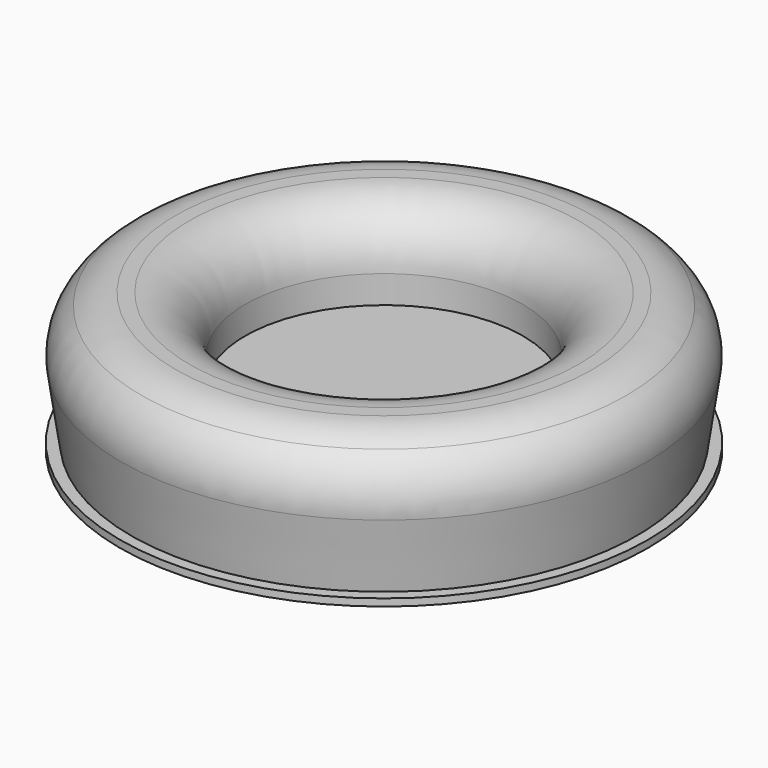
from build123d import *

# Parameters (mm, degrees)
F0_R     = 47.5
F1_DEPTH = 25
F2_R     = 25
F3_DEPTH = 15
F4_R     = 10


with BuildPart() as f1:
    # F0 (on Top) → F1 (new body)
    with BuildSketch(Plane.XY):
        Circle(F0_R)
    extrude(amount=F1_DEPTH)

    # F2 (on face) → F3 (cut)
    with BuildSketch(Plane.XY.offset(25)):
        Circle(F2_R)
    extrude(amount=-F3_DEPTH, mode=Mode.SUBTRACT)

    # F4
    f4_edges = [f1.edges().sort_by_distance(p)[0] for p in [
        (-47.5, 0, 25),
        (-25, 0, 25),
    ]]
    fillet(f4_edges, radius=F4_R)

    # F5 (on Front) → F6 (revolve, cut)
    with BuildSketch(Plane.XZ):
        with BuildLine():
            Line((-50.882176, -0.324849), (-47.5, 0))
            Line((-47.5, 0), (-47.5, 1.3))
            Line((-47.5, 1.3), (-45.5, 1.3))
            Line((-45.5, 1.3), (-47.322187, 13.587635))
            ThreePointArc((-47.322187, 13.587635), (-44.992555, 21.59772), (-37.400495, 25.054492))
            Line((-37.400495, 25.054492), (-37.400495, 26.943451))
            Line((-37.400495, 26.943451), (-49.502667, 21.701315))
            Line((-49.502667, 21.701315), (-50.882176, -0.324849))
        make_face()
    revolve(axis=Axis((0, 0, 17.452553), (0, 0, 1)), mode=Mode.SUBTRACT)


solid = f1.part
